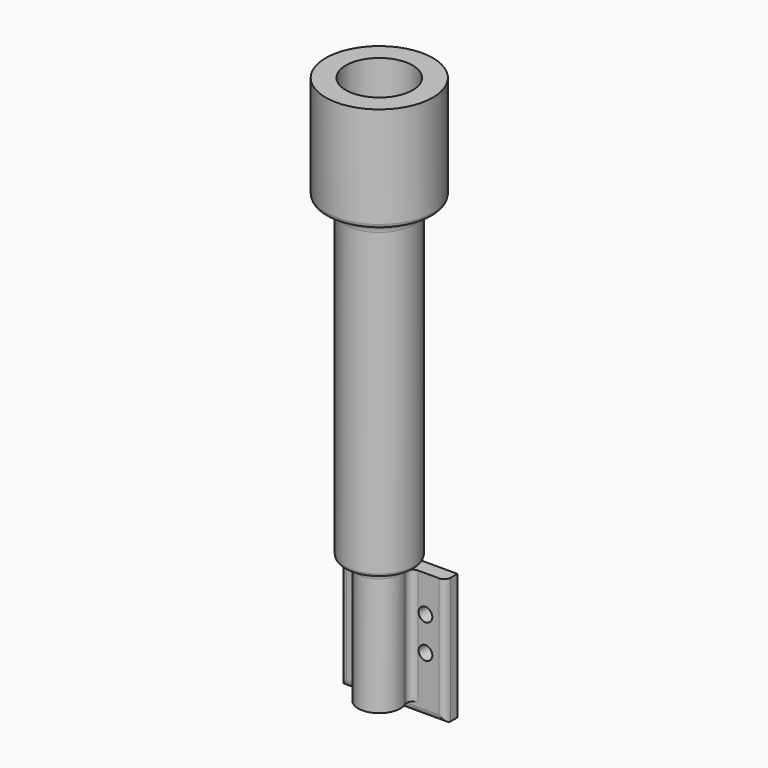
from build123d import *

# Parameters (mm, degrees)
SKETCH001_R      = 16.5
SKETCH001_R_2    = 8
EXTRUDE001_DEPTH = 150
SKETCH002_R      = 10
SKETCH002_R_2    = 4
EXTRUDE002_DEPTH = 60
SKETCH003_W      = 50
SKETCH003_H      = 60
SKETCH003_R      = 3.25
EXTRUDE003_DEPTH = 7
SKETCH_R         = 25.4
SKETCH_R_2       = 15.875
EXTRUDE_DEPTH    = 50
FILLET_1_R       = 6
FILLET_2_R       = 4
FILLET_3_R       = 3
FILLET_4_R       = 2
FILLET_5_R       = 1.5


with BuildPart() as midpipe:
    # Sketch001 → Extrude001 (new body)
    with BuildSketch(Plane.XY):
        Circle(SKETCH001_R)
        Circle(SKETCH001_R_2, mode=Mode.SUBTRACT)
    extrude(amount=-EXTRUDE001_DEPTH)


with BuildPart() as basepipe:
    # Sketch002 → Extrude002 (new body)
    with BuildSketch(Plane.XY.offset(-150)):
        Circle(SKETCH002_R)
        Circle(SKETCH002_R_2, mode=Mode.SUBTRACT)
    extrude(amount=-EXTRUDE002_DEPTH)


with BuildPart() as obj1:
    # Sketch003 → Extrude003 (new body)
    with BuildSketch(Plane(origin=(0, 15, -185), x_dir=(1, 0, 0), z_dir=(0, -1, 0))):
        Rectangle(SKETCH003_W, SKETCH003_H)
        with Locations((-15, 12.75)):
            Circle(SKETCH003_R, mode=Mode.SUBTRACT)
        with Locations((-15, -3.25)):
            Circle(SKETCH003_R, mode=Mode.SUBTRACT)
        with Locations((15.5, 12.75)):
            Circle(SKETCH003_R, mode=Mode.SUBTRACT)
        with Locations((15.5, -3.250048)):
            Circle(SKETCH003_R, mode=Mode.SUBTRACT)
    extrude(amount=EXTRUDE003_DEPTH)


with BuildPart() as mountfillet:
    # Sketch → Extrude (new body)
    with BuildSketch(Plane.XY):
        Circle(SKETCH_R)
        Circle(SKETCH_R_2, mode=Mode.SUBTRACT)
    extrude(amount=EXTRUDE_DEPTH)

    # Fusion: union midPipe, basePipe, obj1
    add(midpipe.part)
    add(basepipe.part)
    add(obj1.part)

    # Fillet 1
    fillet_1_edges = [mountfillet.edges().sort_by_distance(p)[0] for p in [
        (-16.5, 0, 0),
    ]]
    fillet(fillet_1_edges, radius=FILLET_1_R)

    # Fillet 2
    fillet_2_edges = [mountfillet.edges().sort_by_distance(p)[0] for p in [
        (-10, 0, -150),
    ]]
    fillet(fillet_2_edges, radius=FILLET_2_R)

    # Fillet 3
    fillet_3_edges = [mountfillet.edges().sort_by_distance(p)[0] for p in [
        (6, 8, -182.5),
        (-6, 8, -182.5),
        (-25, 8, -185),
        (0, 8, -215),
        (25, 8, -185),
    ]]
    fillet(fillet_3_edges, radius=FILLET_3_R)

    # Fillet 4
    fillet_4_edges = [mountfillet.edges().sort_by_distance(p)[0] for p in [
        (-25.4, 0, 0),
    ]]
    fillet(fillet_4_edges, radius=FILLET_4_R)

    # Fillet 5
    fillet_5_edges = [mountfillet.edges().sort_by_distance(p)[0] for p in [
        (-16.5, 0, -150),
    ]]
    fillet(fillet_5_edges, radius=FILLET_5_R)


solid = mountfillet.part
